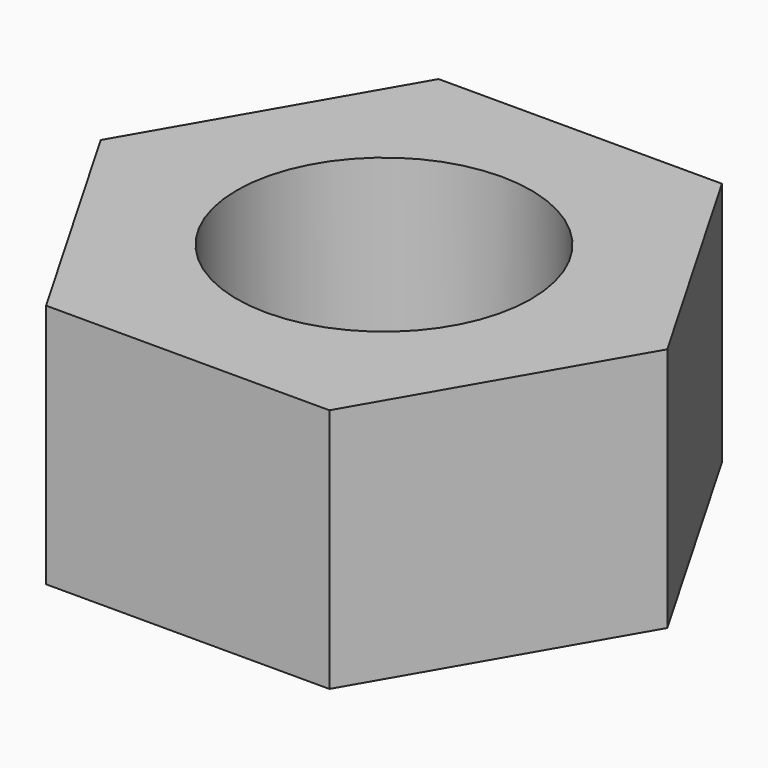
from build123d import *

# Parameters (mm, degrees)
F1_DEPTH = 5
F2_R     = 3
F3_DEPTH = 5


with BuildPart() as f1:
    # F0 (on Top) → F1 (new body)
    with BuildSketch(Plane.XY):
        Polygon((-2.886751, -5), (2.886751, -5), (5.773503, 0), (2.886751, 5), (-2.886751, 5), (-5.773503, 0), align=None)
    extrude(amount=F1_DEPTH)

    # F2 (on face) → F3 (cut, through all)
    with BuildSketch(Plane.XY.offset(5)):
        Circle(F2_R)
    extrude(amount=-F3_DEPTH, mode=Mode.SUBTRACT)


solid = f1.part
